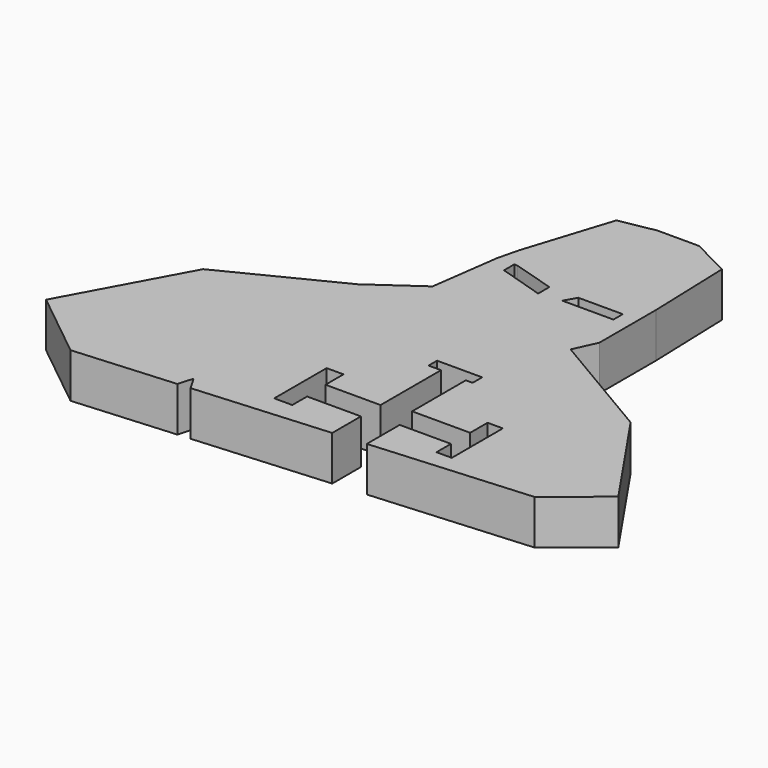
from build123d import *

# Parameters (mm, degrees)
F1_DEPTH = 5


with BuildPart() as f1:
    # F0 (on Top) → F1 (new body)
    with BuildSketch(Plane.XY):
        Polygon((-46.280604, 28.983301), (-38.629685, 22.844559), (-27.33015, 23.684186), (-26.834937, 25.354415), (-25.918989, 23.789044), (-10.92511, 24.903184), (-10.92511, 28.926099), (-16.963577, 28.926099), (-16.963577, 26.853193), (-18.99142, 26.853193), (-18.99142, 34.198493), (-17.098768, 34.198493), (-17.098768, 31.674955), (-10.92511, 31.674955), (-10.92511, 40.146831), (-12.322068, 40.146831), (-12.322068, 41.342758), (-7.265379, 41.342758), (-7.265379, 40.00302), (-8.025374, 40.00302), (-8.025374, 32.473702), (-1.514254, 32.473702), (-1.514254, 34.912024), (0.200608, 34.912024), (0.200608, 27.754456), (-1.514254, 27.754456), (-1.514254, 29.782299), (-7.265379, 29.782299), (-7.265379, 25.175125), (10.502361, 26.49538), (16.186383, 31.118384), (8.228751, 42.789575), (-4.524131, 50.315127), (-3.352487, 52.883729), (-3.352487, 60.81485), (-3.66793, 70.458375), (-7.993996, 72.666466), (-12.680569, 72.666466), (-16.681554, 71.92111), (-19.789744, 62.167827), (-20.365031, 59.828587), (-21.426048, 52.098319), (-26.806921, 48.308972), (-39.160192, 42.094443), align=None)
        Polygon((-18.448524, 59.828587), (-18.145107, 59.828587), (-13.357526, 58.38868), (-13.357526, 56.807794), (-18.448524, 58.38868), align=None, mode=Mode.SUBTRACT)
        Polygon((-5.131543, 57.075739), (-10.865616, 57.075739), (-10.115363, 58.38868), (-5.131543, 58.38868), align=None, mode=Mode.SUBTRACT)
    extrude(amount=F1_DEPTH)


solid = f1.part
